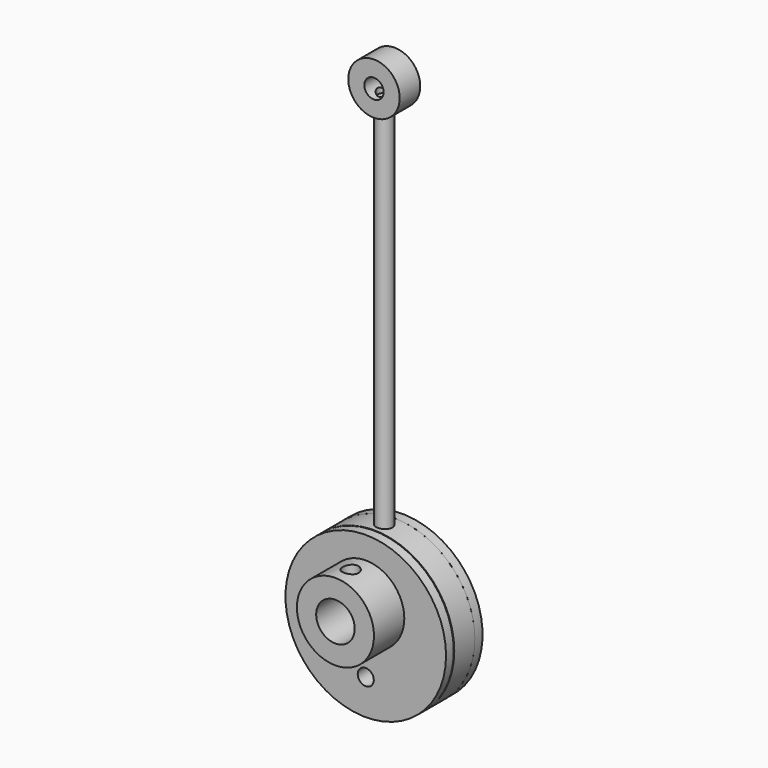
from build123d import *

# Parameters (mm, degrees)
F0_R            = 10
F1_DEPTH        = 4.1
F2_R            = 12.5
F3_DEPTH        = 1.5
F4_R            = 6
F5_DEPTH        = 5.9
F7_D            = 6
F9_D            = 2.5
F12_D           = 2.5
F12_DEPTH       = 9.501
F13_R           = 12.5
F14_DEPTH       = 1.5
F16_D           = 3.3
F16_CSINK_D     = 6
F16_CSINK_ANGLE = 90
F17_D           = 6
F19_R           = 12.5
F19_R_2         = 10.05
F20_DEPTH       = 2
F23_D           = 2.1
F23_DEPTH       = 3
F23_START       = 0.0441782
F23_TIP         = 0.63090365
F24_R           = 4
F24_R_2         = 1.5
F25_DEPTH       = 2
F28_D           = 2.1
F28_DEPTH       = 3
F28_START       = 0.1402721
F28_TIP         = 0.63090365
F29_W           = 1.25
F29_H           = 61


with BuildPart() as f1:
    # F0 (on Front) → F1 (new body)
    with BuildSketch(Plane.XZ):
        Circle(F0_R)
    extrude(amount=F1_DEPTH)

    # F2 (on face) → F3 (join)
    with BuildSketch(Plane.XZ.offset(4.1)):
        Circle(F2_R)
    extrude(amount=F3_DEPTH)

    # F4 (on face) → F5 (join)
    with BuildSketch(Plane.XZ.offset(5.6)):
        with Locations((0, 3)):
            Circle(F4_R)
    extrude(amount=F5_DEPTH)

    # F7 (through all)
    with Locations(Plane.XZ.offset(11.5)):
        with Locations((0, 3)):
            Hole(F7_D / 2)

    # F9 (through all)
    with Locations(Plane.XZ.offset(5.6)):
        with Locations((0, -7)):
            Hole(F9_D / 2)

    # F12 (through all, one way)
    with BuildSketch(Plane(origin=(0, 0, 3), x_dir=(1, 0, 0), z_dir=(0, 0, -1))):
        with Locations((0, 8.55)):
            Circle(F12_D / 2)
    extrude(amount=-F12_DEPTH, mode=Mode.SUBTRACT)


with BuildPart() as f14:
    # F13 (on face) → F14 (new body)
    with BuildSketch(Plane(origin=(0, 0, 0), x_dir=(-1, 0, 0), z_dir=(0, 1, 0))):
        Circle(F13_R)
    extrude(amount=F14_DEPTH)

    # F16 (through all)
    with Locations(Plane(origin=(0, 1.5, 0), x_dir=(-1, 0, 0), z_dir=(0, 1, 0))):
        with Locations((0, -7)):
            CounterSinkHole(F16_D / 2, F16_CSINK_D / 2, counter_sink_angle=F16_CSINK_ANGLE)

    # F17 (through all)
    with Locations(Plane(origin=(0, 1.5, 0), x_dir=(-1, 0, 0), z_dir=(0, 1, 0))):
        with Locations((0, 3)):
            Hole(F17_D / 2)


with BuildPart() as f20:
    # F19 (on offset) → F20 (new body, symmetric)
    with BuildSketch(Plane.XZ.offset(2)):
        Circle(F19_R)
        Circle(F19_R_2, mode=Mode.SUBTRACT)
    extrude(amount=F20_DEPTH, both=True)

    # F23
    # its depths count from where the whole tool has entered the part; down to there all is cleared
    with Locations(Plane.XY.offset(12.5).offset(-F23_START)):
        with Locations((0, -2)):
            Hole(F23_D / 2, depth=F23_DEPTH)
            with Locations((0, 0, -(F23_DEPTH + F23_TIP / 2))):  # 118° drill point
                Cone(0, F23_D / 2, F23_TIP, mode=Mode.SUBTRACT)


with BuildPart() as f25:
    # F24 (on offset) → F25 (new body, symmetric)
    with BuildSketch(Plane.XZ.offset(2)):
        with Locations((0, 73)):
            Circle(F24_R)
        with Locations((0, 73)):
            Circle(F24_R_2, mode=Mode.SUBTRACT)
    extrude(amount=F25_DEPTH, both=True)

    # F28
    # its depths count from where the whole tool has entered the part; down to there all is cleared
    with Locations(Plane(origin=(0, 0, 69), x_dir=(1, 0, 0), z_dir=(0, 0, -1)).offset(-F28_START)):
        with Locations((0, 2)):
            Hole(F28_D / 2, depth=F28_DEPTH)
            with Locations((0, 0, -(F28_DEPTH + F28_TIP / 2))):  # 118° drill point
                Cone(0, F28_D / 2, F28_TIP, mode=Mode.SUBTRACT)


with BuildPart() as f30:
    # F29 (on offset) → F30 (revolve)
    with BuildSketch(Plane.XZ.offset(2)):
        with Locations((0.625, 40.55)):
            Rectangle(F29_W, F29_H)
    revolve(axis=Axis((0, -2, 36.5), (0, 0, 1)))


solid = Compound([f1.part, f14.part, f20.part, f25.part, f30.part])
